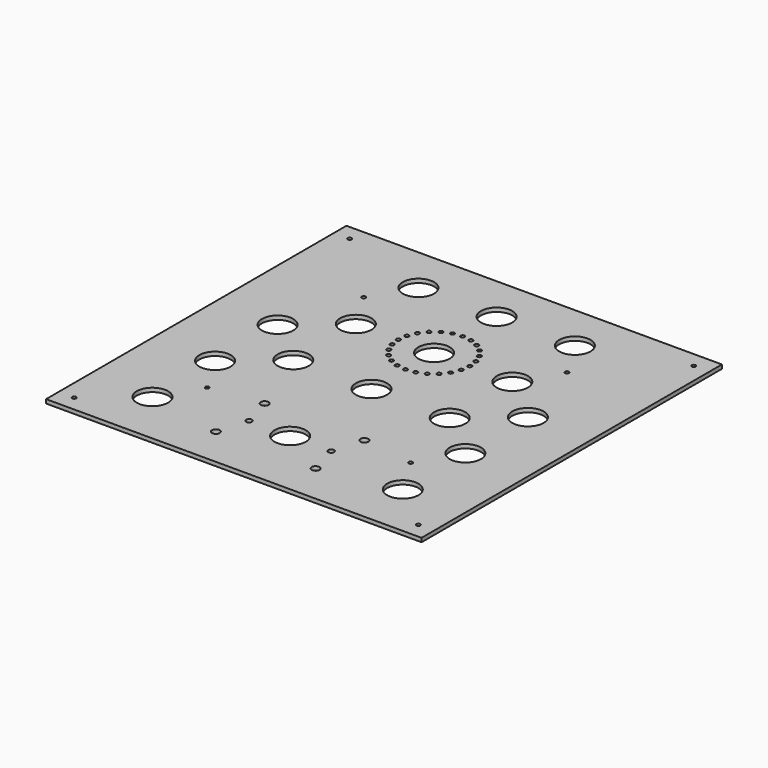
from build123d import *

# Parameters (mm, degrees)
F0_W     = 304.8
F0_H     = 304.8
F0_R     = 1.5875
F0_R_2   = 12.7
F0_R_3   = 3.175
F0_R_4   = 2.38125
F0_R_5   = 1.656096
F1_DEPTH = 3.175


with BuildPart() as f1:
    # F0 (on Top) → F1 (new body)
    with BuildSketch(Plane.XY):
        Rectangle(F0_W, F0_H)
        with Locations((-139.7, -139.7)):
            Circle(F0_R, mode=Mode.SUBTRACT)
        with Locations((-101.6, -107.95)):
            Circle(F0_R_2, mode=Mode.SUBTRACT)
        with Locations((-40.48125, -120.015)):
            Circle(F0_R_3, mode=Mode.SUBTRACT)
        with Locations((-33.3375, -95.25)):
            Circle(F0_R_4, mode=Mode.SUBTRACT)
        with Locations((-82.55, -76.2)):
            Circle(F0_R, mode=Mode.SUBTRACT)
        with Locations((-101.6, -44.45)):
            Circle(F0_R_2, mode=Mode.SUBTRACT)
        with Locations((-40.48125, -70.485)):
            Circle(F0_R_3, mode=Mode.SUBTRACT)
        with Locations((-63.5, -12.7)):
            Circle(F0_R_2, mode=Mode.SUBTRACT)
        with Locations((40.48125, -120.015)):
            Circle(F0_R_3, mode=Mode.SUBTRACT)
        with Locations((0, -95.25)):
            Circle(F0_R_2, mode=Mode.SUBTRACT)
        with Locations((33.3375, -95.25)):
            Circle(F0_R_4, mode=Mode.SUBTRACT)
        with Locations((139.7, -139.7)):
            Circle(F0_R, mode=Mode.SUBTRACT)
        with Locations((101.6, -107.95)):
            Circle(F0_R_2, mode=Mode.SUBTRACT)
        with Locations((40.48125, -70.485)):
            Circle(F0_R_3, mode=Mode.SUBTRACT)
        with Locations((0, -12.7)):
            Circle(F0_R_2, mode=Mode.SUBTRACT)
        with Locations((63.5, -12.7)):
            Circle(F0_R_2, mode=Mode.SUBTRACT)
        with Locations((82.55, -76.2)):
            Circle(F0_R, mode=Mode.SUBTRACT)
        with Locations((101.6, -44.45)):
            Circle(F0_R_2, mode=Mode.SUBTRACT)
        with Locations((-101.6, 19.05)):
            Circle(F0_R_2, mode=Mode.SUBTRACT)
        with Locations((-20.506097, 30.293903)):
            Circle(F0_R_5, mode=Mode.SUBTRACT)
        with Locations((-25.114737, 36.3)):
            Circle(F0_R_5, mode=Mode.SUBTRACT)
        with Locations((-14.5, 25.685263)):
            Circle(F0_R_5, mode=Mode.SUBTRACT)
        with Locations((-7.505752, 22.788151)):
            Circle(F0_R_5, mode=Mode.SUBTRACT)
        with Locations((-63.5, 50.8)):
            Circle(F0_R_2, mode=Mode.SUBTRACT)
        with Locations((-28.011849, 43.294248)):
            Circle(F0_R_5, mode=Mode.SUBTRACT)
        with Locations((-29, 50.8)):
            Circle(F0_R_5, mode=Mode.SUBTRACT)
        with Locations((-28.011849, 58.305752)):
            Circle(F0_R_5, mode=Mode.SUBTRACT)
        with Locations((-25.114737, 65.3)):
            Circle(F0_R_5, mode=Mode.SUBTRACT)
        with Locations((-20.506097, 71.306097)):
            Circle(F0_R_5, mode=Mode.SUBTRACT)
        with Locations((-14.5, 75.914737)):
            Circle(F0_R_5, mode=Mode.SUBTRACT)
        with Locations((-82.55, 82.55)):
            Circle(F0_R, mode=Mode.SUBTRACT)
        with Locations((-139.7, 139.7)):
            Circle(F0_R, mode=Mode.SUBTRACT)
        with Locations((-7.505752, 78.811849)):
            Circle(F0_R_5, mode=Mode.SUBTRACT)
        with Locations((-63.5, 114.3)):
            Circle(F0_R_2, mode=Mode.SUBTRACT)
        with Locations((0, 21.8)):
            Circle(F0_R_5, mode=Mode.SUBTRACT)
        with Locations((7.505752, 22.788151)):
            Circle(F0_R_5, mode=Mode.SUBTRACT)
        with Locations((14.5, 25.685263)):
            Circle(F0_R_5, mode=Mode.SUBTRACT)
        with Locations((20.506097, 30.293903)):
            Circle(F0_R_5, mode=Mode.SUBTRACT)
        with Locations((25.114737, 36.3)):
            Circle(F0_R_5, mode=Mode.SUBTRACT)
        with Locations((0, 50.8)):
            Circle(F0_R_2, mode=Mode.SUBTRACT)
        with Locations((28.011849, 43.294248)):
            Circle(F0_R_5, mode=Mode.SUBTRACT)
        with Locations((29, 50.8)):
            Circle(F0_R_5, mode=Mode.SUBTRACT)
        with Locations((14.5, 75.914737)):
            Circle(F0_R_5, mode=Mode.SUBTRACT)
        with Locations((28.011849, 58.305752)):
            Circle(F0_R_5, mode=Mode.SUBTRACT)
        with Locations((25.114737, 65.3)):
            Circle(F0_R_5, mode=Mode.SUBTRACT)
        with Locations((20.506097, 71.306097)):
            Circle(F0_R_5, mode=Mode.SUBTRACT)
        with Locations((63.5, 50.8)):
            Circle(F0_R_2, mode=Mode.SUBTRACT)
        with Locations((101.6, 19.05)):
            Circle(F0_R_2, mode=Mode.SUBTRACT)
        with Locations((0, 79.8)):
            Circle(F0_R_5, mode=Mode.SUBTRACT)
        with Locations((7.505752, 78.811849)):
            Circle(F0_R_5, mode=Mode.SUBTRACT)
        with Locations((0, 114.3)):
            Circle(F0_R_2, mode=Mode.SUBTRACT)
        with Locations((63.5, 114.3)):
            Circle(F0_R_2, mode=Mode.SUBTRACT)
        with Locations((82.55, 82.55)):
            Circle(F0_R, mode=Mode.SUBTRACT)
        with Locations((139.7, 139.7)):
            Circle(F0_R, mode=Mode.SUBTRACT)
    extrude(amount=F1_DEPTH)


solid = f1.part
